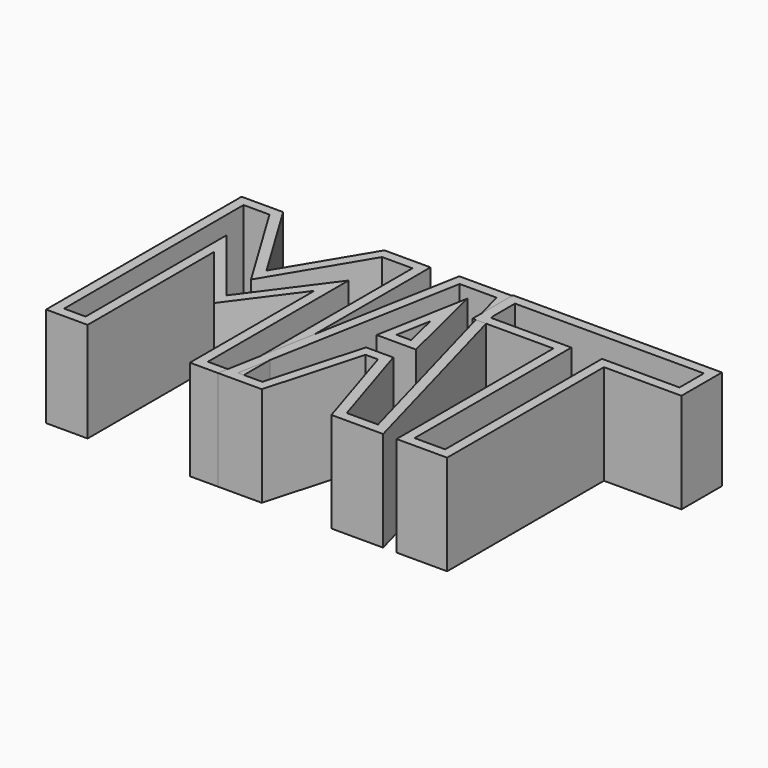
from build123d import *

# Parameters (mm, degrees)
F3_DEPTH = 25.4
F2_W     = 12.8358323127
F2_H     = 49.7744940221
F4_T     = -2.54
F4_2_T   = -2.54
F4_3_T   = -2.54


with BuildPart() as f3:
    # F0 (on Top) → F3 (new body)
    with BuildSketch(Plane.XY):
        Polygon((-44.7827801108, 40.3615534306), (-57.9038485885, 62.0398409665), (-57.9038485885, 40.0763116777), (-44.2123003304, 22.9618716985), (-31.9469533861, 39.5058318973), (-31.9469533861, 61.7545992136), align=None)
        Polygon((-57.9038485885, 62.0398409665), (-68.4577524662, 62.0398409665), (-68.4577524662, 0), (-57.9038485885, 0), (-57.9038485885, 40.0763116777), align=None)
        Polygon((-20.2520862222, 61.7545992136), (-31.9469533861, 61.7545992136), (-31.9469533861, 39.5058318973), (-31.9469533861, 0), (-20.2520862222, 0), align=None)
    extrude(amount=F3_DEPTH)

    # F4
    f4_openings = [f3.faces().sort_by_distance(p)[0] for p in [
        (-44.0268, 33.845285, 25.4),
    ]]
    offset(amount=F4_T, openings=f4_openings, kind=Kind.INTERSECTION)


with BuildPart() as f3b:
    # F1 (on Top) → F3, piece 2 (new body)
    with BuildSketch(Plane.XY):
        Polygon((-13.4063102305, 62.325078994), (-24.8159356415, 0), (-13.691551052, 0), (-6.845775526, 24.3880767375), (-3.7081290502, 24.3880767375), (3.9933696389, 0), (17.1144381166, 0), (0, 62.325078994), align=None)
        Polygon((-7.4162567034, 34.9419787526), (-5.8239077568, 43.6401848994), (-3.7081290502, 34.9419787526), align=None, mode=Mode.SUBTRACT)
    extrude(amount=F3_DEPTH)

    # F4#2
    f4_2_openings = [f3b.faces().sort_by_distance(p)[0] for p in [
        (-5.028317, 28.547265, 25.4),
    ]]
    offset(amount=F4_2_T, openings=f4_2_openings, kind=Kind.INTERSECTION)


with BuildPart() as f3c:
    # F2 (on Top) → F3, piece 3 (new body)
    with BuildSketch(Plane.XY):
        Polygon((53.0547574162, 62.6103207469), (0, 62.6103207469), (0, 49.7744940221), (20.5373261124, 49.7744940221), (33.3731584251, 49.7744940221), (53.0547574162, 49.7744940221), align=None)
        with Locations((26.9552422687, 24.8872470111)):
            Rectangle(F2_W, F2_H)
    extrude(amount=F3_DEPTH)

    # F4#3
    f4_3_openings = [f3c.faces().sort_by_distance(p)[0] for p in [
        (26.734486, 41.039143, 25.4),
    ]]
    offset(amount=F4_3_T, openings=f4_3_openings, kind=Kind.INTERSECTION)


solid = Compound([f3.part, f3b.part, f3c.part])
